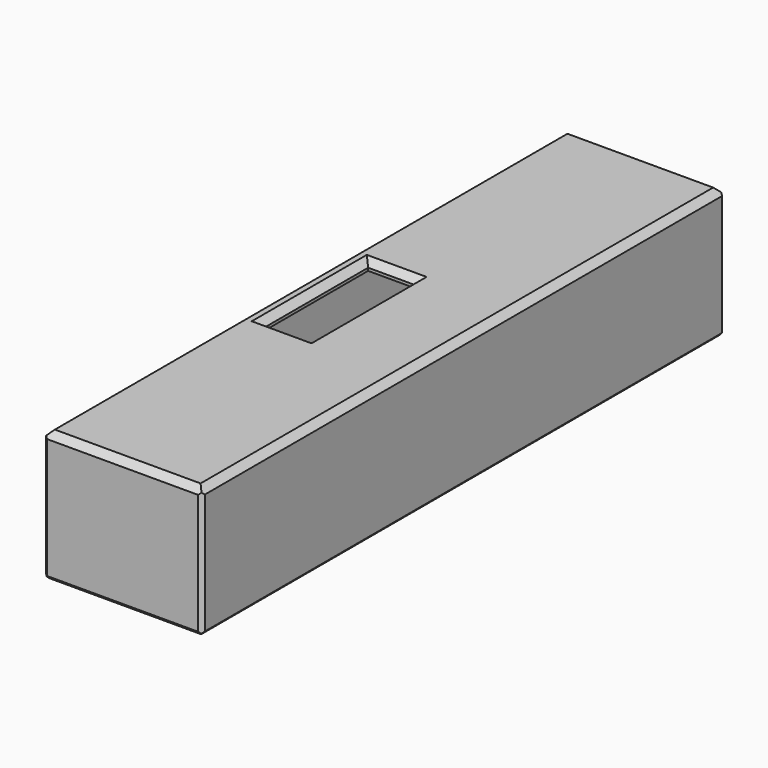
from build123d import *

# Parameters (mm, degrees)
BOX004_W          = 8
BOX004_H          = 8
BOX004_DEPTH      = 9
CYLINDER_R        = 1
CYLINDER_DEPTH    = 10
CYLINDER001_R     = 1
CYLINDER001_DEPTH = 10
CYLINDER002_R     = 4.5
CYLINDER002_DEPTH = 12
CYLINDER003_R     = 4.5
CYLINDER003_DEPTH = 12
BOX002_W          = 5
BOX002_H          = 14
BOX002_DEPTH      = 11
BOX_W             = 15.2
BOX_H             = 68.2
BOX_DEPTH         = 18
BOX001_W          = 17
BOX001_H          = 70
BOX001_DEPTH      = 14
CHAMFER_SIZE      = 0.7
CHAMFER001_SIZE   = 0.7
CHAMFER002_SIZE   = 0.4
CHAMFER003_SIZE   = 0.4
CHAMFER004_SIZE   = 0.4


with BuildPart() as cubo003:
    # Box004 → Box004 (new body)
    with BuildSketch(Plane(origin=(-5, 8, -2), x_dir=(1, 0, 0), z_dir=(0, 0, 1))):
        with Locations((4, 4)):
            Rectangle(BOX004_W, BOX004_H)
    extrude(amount=BOX004_DEPTH)


with BuildPart() as led1:
    # Cylinder → Cylinder (new body)
    with BuildSketch(Plane(origin=(-5, 59, 7), x_dir=(0, 0, -1), z_dir=(1, 0, 0))):
        Circle(CYLINDER_R)
    extrude(amount=CYLINDER_DEPTH)


with BuildPart() as cilindro:
    # Cylinder001 → Cylinder001 (new body)
    with BuildSketch(Plane(origin=(-5, 53, 7), x_dir=(0, 0, -1), z_dir=(1, 0, 0))):
        Circle(CYLINDER001_R)
    extrude(amount=CYLINDER001_DEPTH)


with BuildPart() as cilindro001:
    # Cylinder002 → Cylinder002 (new body)
    with BuildSketch(Plane(origin=(-8, 8, 2.5), x_dir=(0, 0, -1), z_dir=(1, 0, 0))):
        Circle(CYLINDER002_R)
    extrude(amount=CYLINDER002_DEPTH)


with BuildPart() as fusion:
    # Cylinder003 → Cylinder003 (new body)
    with BuildSketch(Plane(origin=(-8, 17, 2.5), x_dir=(0, 0, -1), z_dir=(1, 0, 0))):
        Circle(CYLINDER003_R)
    extrude(amount=CYLINDER003_DEPTH)

    # Fusion: union Cilindro001
    add(cilindro001.part)


with BuildPart() as cubo001:
    # Box002 → Box002 (new body)
    with BuildSketch(Plane(origin=(1, 26, 2), x_dir=(1, 0, 0), z_dir=(0, 0, 1))):
        with Locations((2.5, 7)):
            Rectangle(BOX002_W, BOX002_H)
    extrude(amount=BOX002_DEPTH)


with BuildPart() as foroslot:
    # Box → Box (new body)
    with BuildSketch(Plane(origin=(-0.1, -0.1, -9), x_dir=(1, 0, 0), z_dir=(0, 0, 1))):
        with Locations((7.6, 34.1)):
            Rectangle(BOX_W, BOX_H)
    extrude(amount=BOX_DEPTH)


with BuildPart() as cut006:
    # Box001 → Box001 (new body)
    with BuildSketch(Plane(origin=(-1, -1, -4), x_dir=(1, 0, 0), z_dir=(0, 0, 1))):
        with Locations((8.5, 35)):
            Rectangle(BOX001_W, BOX001_H)
    extrude(amount=BOX001_DEPTH)

    # Cut: cut foroSlot
    add(foroslot.part, mode=Mode.SUBTRACT)

    # Cut001: cut Cubo001
    add(cubo001.part, mode=Mode.SUBTRACT)

    # Chamfer
    chamfer_edges = [cut006.edges().sort_by_distance(p)[0] for p in [
        (3.5, 26, 10),
        (6, 33, 10),
        (3.5, 40, 10),
        (1, 33, 10),
    ]]
    chamfer(chamfer_edges, length=CHAMFER_SIZE)

    # Chamfer001
    chamfer001_edges = [cut006.edges().sort_by_distance(p)[0] for p in [
        (-1, 34, 10),
        (7.5, -1, 10),
        (16, 34, 10),
        (7.5, 69, 10),
    ]]
    chamfer(chamfer001_edges, length=CHAMFER001_SIZE)

    # Cut002: cut Fusion
    add(fusion.part, mode=Mode.SUBTRACT)

    # Cut003: cut Cilindro
    add(cilindro.part, mode=Mode.SUBTRACT)

    # Cut004: cut Led1
    add(led1.part, mode=Mode.SUBTRACT)

    # Chamfer002
    chamfer002_edges = [cut006.edges().sort_by_distance(p)[0] for p in [
        (7.5, -1, -4),
        (7.5, 69, -4),
    ]]
    chamfer(chamfer002_edges, length=CHAMFER002_SIZE)

    # Chamfer003
    chamfer003_edges = [cut006.edges().sort_by_distance(p)[0] for p in [
        (-1, 34, -4),
        (16, 34, -4),
    ]]
    chamfer(chamfer003_edges, length=CHAMFER003_SIZE)

    # Chamfer004
    chamfer004_edges = [cut006.edges().sort_by_distance(p)[0] for p in [
        (-1, 69, 2.85),
        (-1, -1, 2.85),
        (16, -1, 2.85),
        (16, 69, 2.85),
    ]]
    chamfer(chamfer004_edges, length=CHAMFER004_SIZE)

    # Cut006: cut Cubo003
    add(cubo003.part, mode=Mode.SUBTRACT)


solid = cut006.part
